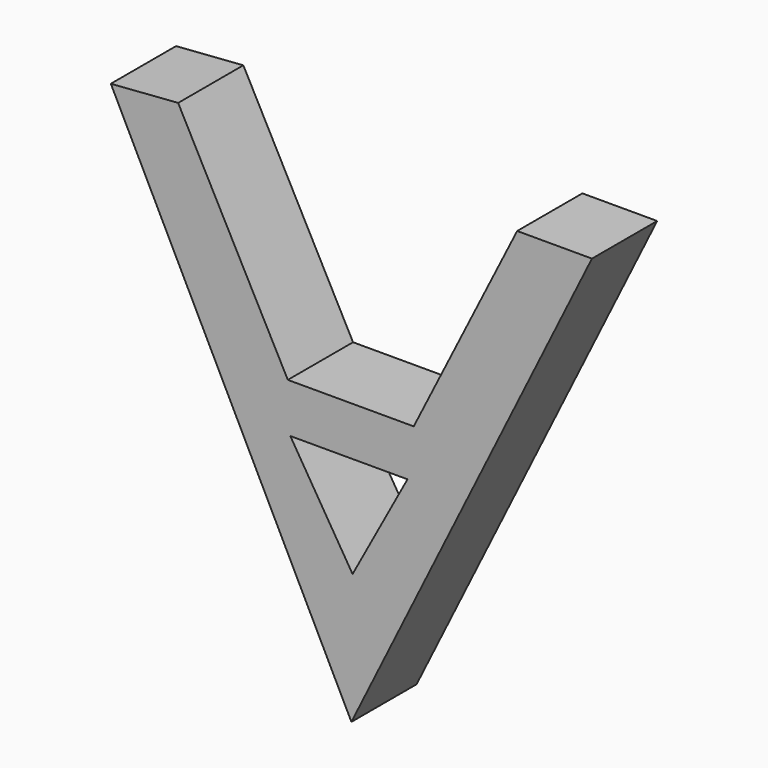
from build123d import *

# Parameters (mm, degrees)
F1_DEPTH = 25.4


with BuildPart() as f1:
    # F0 (on Front) → F1 (new body)
    with BuildSketch(Plane.XZ):
        Polygon((-53.987332, 76.514423), (-74.960828, 74.960828), (0, -75.737618), (74.960828, 75.737618), (51.656947, 75.737618), (19.419903, 11.651943), (-19.808304, 11.651943), align=None)
        Polygon((0.364124, -35.061012), (-19.031508, -3.495583), (17.477909, -3.495583), align=None, mode=Mode.SUBTRACT)
    extrude(amount=F1_DEPTH)


solid = f1.part
